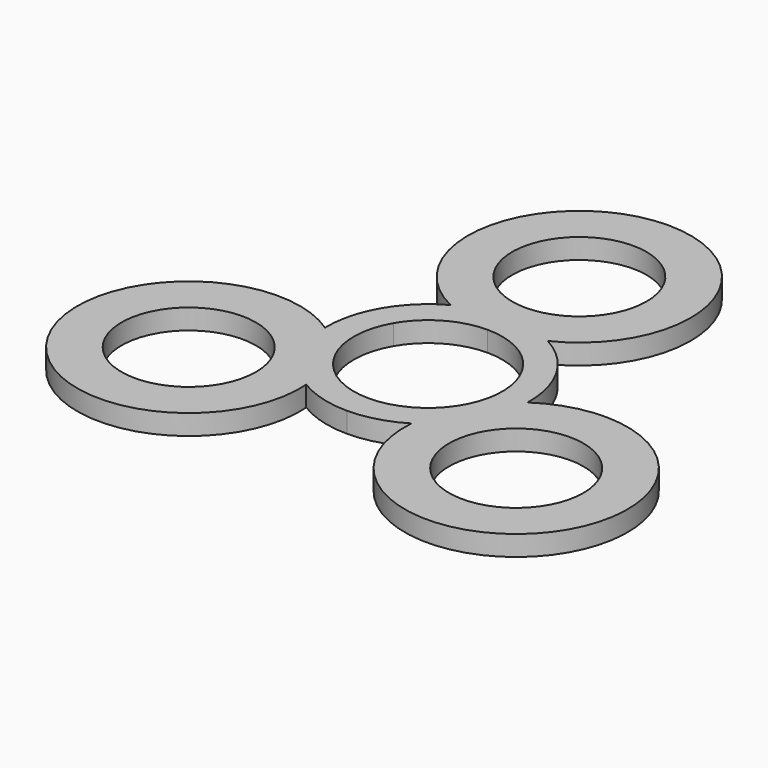
from build123d import *

# Parameters (mm, degrees)
F0_R     = 9.95
F1_DEPTH = 3


with BuildPart() as f1:
    # F0 (on Top) → F1 (new body)
    with BuildSketch(Plane.XY):
        with BuildLine():
            ThreePointArc((7.205074, 13.15625), (0, 44.5), (-7.205074, 13.15625))
            ThreePointArc((-7.205074, 13.15625), (-10.486295, 10.725559), (-12.990381, 7.5))
            ThreePointArc((-12.990381, 7.5), (-14.531754, 3.718619), (-14.996184, -0.338348))
            ThreePointArc((-14.996184, -0.338348), (-38.53813, -22.25), (-7.79111, -12.817902))
            ThreePointArc((-7.79111, -12.817902), (-4.045459, -14.444177), (0, -15))
            ThreePointArc((0, -15), (4.045459, -14.444177), (7.79111, -12.817902))
            ThreePointArc((7.79111, -12.817902), (38.53813, -22.25), (14.996184, -0.338348))
            ThreePointArc((14.996184, -0.338348), (14.531754, 3.718619), (12.990381, 7.5))
            ThreePointArc((12.990381, 7.5), (10.486295, 10.725559), (7.205074, 13.15625))
        make_face()
        with Locations((-24.248711, -14)):
            Circle(F0_R, mode=Mode.SUBTRACT)
        with BuildLine():
            ThreePointArc((0, 11), (5.5, 9.526279), (9.526279, 5.5))
            ThreePointArc((9.526279, 5.5), (9.526279, -5.5), (0, -11))
            ThreePointArc((0, -11), (-9.526279, -5.5), (-9.526279, 5.5))
            ThreePointArc((-9.526279, 5.5), (-5.5, 9.526279), (0, 11))
        make_face(mode=Mode.SUBTRACT)
        with Locations((24.248711, -14)):
            Circle(F0_R, mode=Mode.SUBTRACT)
        with BuildLine():
            ThreePointArc((9.95, 28), (7.035712, 20.964288), (0, 18.05))
            ThreePointArc((0, 18.05), (-7.035712, 35.035712), (9.95, 28))
        make_face(mode=Mode.SUBTRACT)
    extrude(amount=F1_DEPTH)


solid = f1.part
